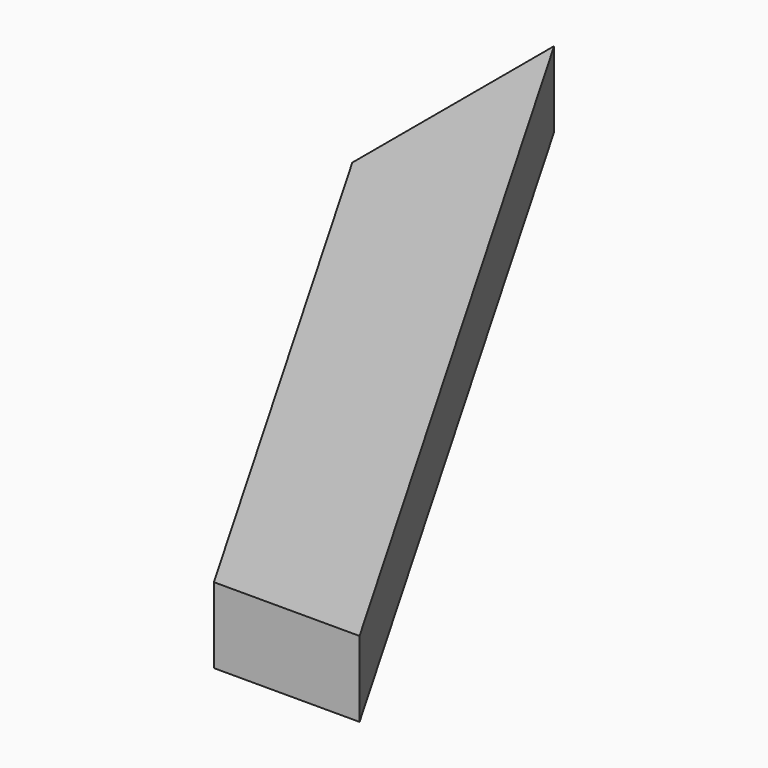
from build123d import *

# Parameters (mm, degrees)
F1_DEPTH = 19.05


with BuildPart() as f1:
    # F0 (on Top) → F1 (new body, symmetric)
    with BuildSketch(Plane.XY):
        Polygon((254, 0), (0, 439.940905), (0, 312.940905), (180.676516, 0), align=None)
    extrude(amount=F1_DEPTH, both=True)


solid = f1.part
